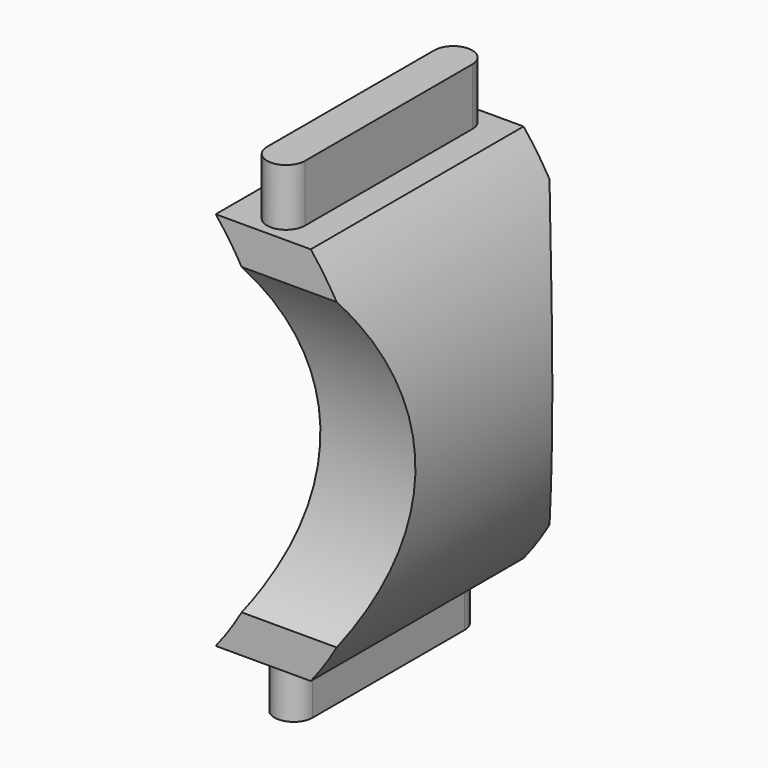
from build123d import *

# Parameters (mm, degrees)
F1_DEPTH = 88.9
F3_DEPTH = 19.05
F5_DEPTH = 19.05
F8_DEPTH = 54.0395254203


with BuildPart() as f1:
    # F0 (on Front) → F1 (new body)
    with BuildSketch(Plane.XZ):
        with BuildLine():
            Line((-32.5461814261, -20.7940909142), (-32.5461814261, 106.2059090858))
            Line((-32.5461814261, 106.2059090858), (-64.2961814261, 106.2059090858))
            ThreePointArc((-64.2961814261, 106.2059090858), (-42.0076560058, 42.7059090858), (-64.2961814261, -20.7940909142))
            Line((-64.2961814261, -20.7940909142), (-32.5461814261, -20.7940909142))
        make_face()
        with BuildLine():
            ThreePointArc((-32.5461814261, -20.7940909142), (-10.2576560058, 42.7059090858), (-32.5461814261, 106.2059090858))
            Line((-32.5461814261, 106.2059090858), (-32.5461814261, -20.7940909142))
        make_face()
    extrude(amount=F1_DEPTH)

    # F2 (on face) → F3 (join)
    with BuildSketch(Plane(origin=(0, 0, -20.7940909142), x_dir=(1, 0, 0), z_dir=(0, 0, -1))):
        with BuildLine():
            Line((-42.0711814261, 12.7), (-42.0711814261, 76.2))
            ThreePointArc((-42.0711814261, 76.2), (-48.4211814261, 82.55), (-54.7711814261, 76.2))
            Line((-54.7711814261, 76.2), (-54.7711814261, 12.7))
            ThreePointArc((-54.7711814261, 12.7), (-48.4211814261, 6.35), (-42.0711814261, 12.7))
        make_face()
    extrude(amount=F3_DEPTH)

    # F4 (on face) → F5 (join)
    with BuildSketch(Plane.XY.offset(106.2059090858)):
        with BuildLine():
            Line((-42.0711817384, -79.375), (-42.0711817384, -9.525))
            ThreePointArc((-42.0711817384, -9.525), (-48.4211817384, -3.175), (-54.7711817384, -9.525))
            Line((-54.7711817384, -9.525), (-54.7711817384, -79.375))
            ThreePointArc((-54.7711817384, -79.375), (-48.4211817384, -85.725), (-42.0711817384, -79.375))
        make_face()
    extrude(amount=F5_DEPTH)

    # F7 (on 3pt) → F8 (cut, through all)
    with BuildSketch(Plane(origin=(-64.2961814261, 0, 0), x_dir=(0, -1, 0), z_dir=(-1, 0, 0))):
        with BuildLine():
            Line((-11.4886816591, -8.6150756106), (0, -8.0940909142))
            ThreePointArc((0, -8.0940909142), (15.875, 42.7059090858), (0, 93.5059090858))
            Line((0, 93.5059090858), (-11.4886816591, 93.5059090858))
            Line((-11.4886816591, 93.5059090858), (-11.4886816591, -8.6150756106))
        make_face()
        with BuildLine():
            ThreePointArc((88.9, 93.5059090858), (73.025, 42.7059090858), (88.9, -8.0940909142))
            Line((88.9, -8.0940909142), (100.3886816591, -8.6150756106))
            Line((100.3886816591, -8.6150756106), (100.3886816591, 93.5059090858))
            Line((100.3886816591, 93.5059090858), (88.9, 93.5059090858))
        make_face()
    extrude(amount=-F8_DEPTH, mode=Mode.SUBTRACT)


solid = f1.part
